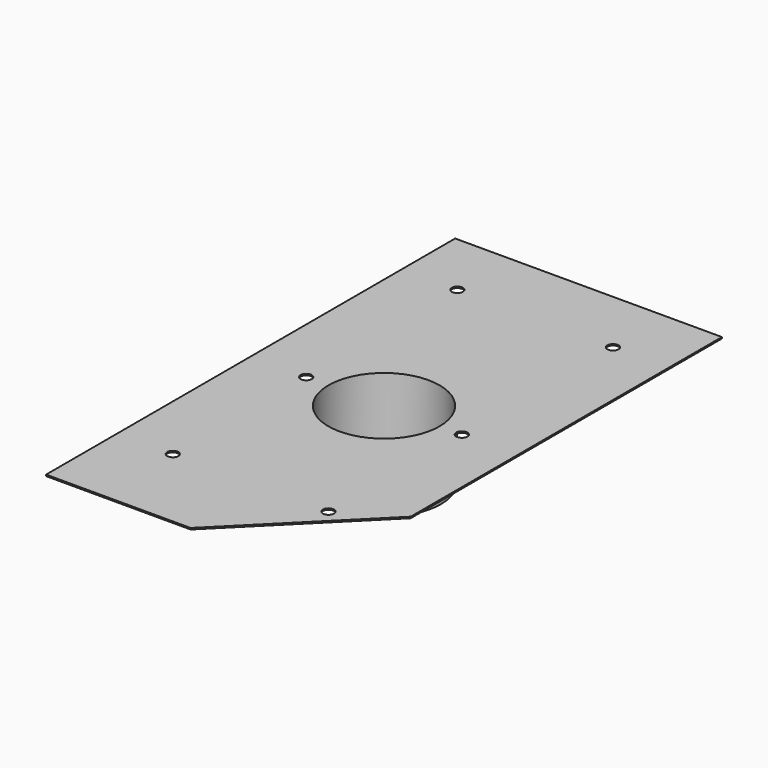
from build123d import *

# Parameters (mm, degrees)
F0_R     = 63.5
F1_DEPTH = 1.5875
F2_R     = 65.0875
F2_R_2   = 63.5
F3_DEPTH = 76.2
F5_DEPTH = 25.4


with BuildPart() as f1:
    # F0 (on Top) → F1 (new body)
    with BuildSketch(Plane.XY):
        Polygon((152.4, -152.4), (152.4, 292.1), (-152.4, 292.1), (-152.4, -292.1), (12.7, -292.1), align=None)
        Circle(F0_R, mode=Mode.SUBTRACT)
    extrude(amount=F1_DEPTH)

    # F2 (on face) → F3 (join)
    with BuildSketch(Plane(origin=(0, 0, 0), x_dir=(1, 0, 0), z_dir=(0, 0, -1))):
        Circle(F2_R)
        Circle(F2_R_2, mode=Mode.SUBTRACT)
    extrude(amount=F3_DEPTH)

    # F4 (on face) → F5 (cut)
    with BuildSketch(Plane.XY.offset(1.5875)):
        with BuildLine():
            ThreePointArc((-88.9, 222.25), (-93.390128, 220.390128), (-95.25, 215.9))
            Line((-95.25, 215.9), (-88.9, 215.9))
            Line((-88.9, 215.9), (-88.9, 222.25))
        make_face()
        with BuildLine():
            ThreePointArc((88.9, 222.25), (84.409872, 220.390128), (82.55, 215.9))
            Line((82.55, 215.9), (88.9, 215.9))
            Line((88.9, 215.9), (88.9, 222.25))
        make_face()
        with BuildLine():
            Line((88.9, 215.9), (82.55, 215.9))
            ThreePointArc((82.55, 215.9), (84.409872, 211.409872), (88.9, 209.55))
            Line((88.9, 209.55), (88.9, 215.9))
        make_face()
        with BuildLine():
            Line((-88.9, 215.9), (-95.25, 215.9))
            ThreePointArc((-95.25, 215.9), (-93.390128, 211.409872), (-88.9, 209.55))
            Line((-88.9, 209.55), (-88.9, 215.9))
        make_face()
        with BuildLine():
            Line((-88.9, 222.25), (-88.9, 215.9))
            Line((-88.9, 215.9), (-82.55, 215.9))
            ThreePointArc((-82.55, 215.9), (-84.409872, 220.390128), (-88.9, 222.25))
        make_face()
        with BuildLine():
            Line((-82.55, 215.9), (-88.9, 215.9))
            Line((-88.9, 215.9), (-88.9, 209.55))
            ThreePointArc((-88.9, 209.55), (-84.409872, 211.409872), (-82.55, 215.9))
        make_face()
        with BuildLine():
            Line((88.9, 222.25), (88.9, 215.9))
            Line((88.9, 215.9), (95.25, 215.9))
            ThreePointArc((95.25, 215.9), (93.390128, 220.390128), (88.9, 222.25))
        make_face()
        with BuildLine():
            Line((95.25, 215.9), (88.9, 215.9))
            Line((88.9, 215.9), (88.9, 209.55))
            ThreePointArc((88.9, 209.55), (93.390128, 211.409872), (95.25, 215.9))
        make_face()
        with BuildLine():
            ThreePointArc((-88.9, -184.15), (-93.390128, -186.009872), (-95.25, -190.5))
            Line((-95.25, -190.5), (-88.9, -190.5))
            Line((-88.9, -190.5), (-88.9, -184.15))
        make_face()
        with BuildLine():
            ThreePointArc((88.9, -184.15), (84.409872, -186.009872), (82.55, -190.5))
            Line((82.55, -190.5), (88.9, -190.5))
            Line((88.9, -190.5), (88.9, -184.15))
        make_face()
        with BuildLine():
            Line((88.9, -190.5), (82.55, -190.5))
            ThreePointArc((82.55, -190.5), (84.409872, -194.990128), (88.9, -196.85))
            Line((88.9, -196.85), (88.9, -190.5))
        make_face()
        with BuildLine():
            Line((-88.9, -190.5), (-95.25, -190.5))
            ThreePointArc((-95.25, -190.5), (-93.390128, -194.990128), (-88.9, -196.85))
            Line((-88.9, -196.85), (-88.9, -190.5))
        make_face()
        with BuildLine():
            Line((-88.9, -184.15), (-88.9, -190.5))
            Line((-88.9, -190.5), (-82.55, -190.5))
            ThreePointArc((-82.55, -190.5), (-84.409872, -186.009872), (-88.9, -184.15))
        make_face()
        with BuildLine():
            Line((-82.55, -190.5), (-88.9, -190.5))
            Line((-88.9, -190.5), (-88.9, -196.85))
            ThreePointArc((-88.9, -196.85), (-84.409872, -194.990128), (-82.55, -190.5))
        make_face()
        with BuildLine():
            Line((88.9, -184.15), (88.9, -190.5))
            Line((88.9, -190.5), (95.25, -190.5))
            ThreePointArc((95.25, -190.5), (93.390128, -186.009872), (88.9, -184.15))
        make_face()
        with BuildLine():
            Line((95.25, -190.5), (88.9, -190.5))
            Line((88.9, -190.5), (88.9, -196.85))
            ThreePointArc((88.9, -196.85), (93.390128, -194.990128), (95.25, -190.5))
        make_face()
        with BuildLine():
            ThreePointArc((-88.9, -6.35), (-84.409872, -4.490128), (-82.55, 0))
            ThreePointArc((-82.55, 0), (-84.409872, 4.490128), (-88.9, 6.35))
            Line((-88.9, 6.35), (-88.9, -6.35))
        make_face()
        with BuildLine():
            Line((-88.9, -6.35), (-88.9, 6.35))
            ThreePointArc((-88.9, 6.35), (-95.25, 0), (-88.9, -6.35))
        make_face()
        with BuildLine():
            ThreePointArc((88.9, -6.35), (93.390128, -4.490128), (95.25, 0))
            ThreePointArc((95.25, 0), (93.390128, 4.490128), (88.9, 6.35))
            Line((88.9, 6.35), (88.9, -6.35))
        make_face()
        with BuildLine():
            Line((88.9, -6.35), (88.9, 6.35))
            ThreePointArc((88.9, 6.35), (82.55, 0), (88.9, -6.35))
        make_face()
    extrude(amount=-F5_DEPTH, mode=Mode.SUBTRACT)


solid = f1.part
